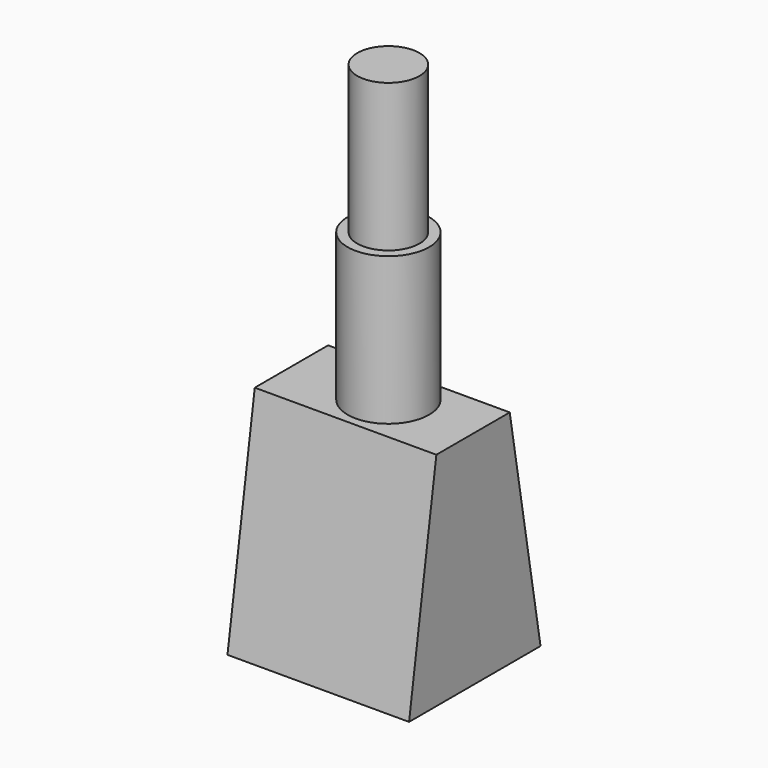
from build123d import *

# Parameters (mm, degrees)
F0_W     = 125.034798
F0_H     = 113.135892
F1_DEPTH = 152.4
F3_DEPTH = 125.035798
F5_DEPTH = 125.035798
F6_R     = 28.062264
F7_DEPTH = 101.6
F8_R     = 21.423824
F9_DEPTH = 101.6


with BuildPart() as f1:
    # F0 (on Top) → F1 (new body)
    with BuildSketch(Plane.XY):
        with Locations((-2.346424, -0.839917)):
            Rectangle(F0_W, F0_H)
    extrude(amount=F1_DEPTH)

    # F2 (on face) → F3 (cut, through all)
    with BuildSketch(Plane.YZ.offset(60.170975)):
        Polygon((-57.407863, 152.4), (-57.407863, 0), (-33.916943, 152.4), align=None)
    extrude(amount=-F3_DEPTH, mode=Mode.SUBTRACT)

    # F4 (on face) → F5 (cut, through all)
    with BuildSketch(Plane.YZ.offset(60.170975)):
        Polygon((29.225653, 152.4), (55.728029, 0), (55.728029, 152.4), align=None)
    extrude(amount=-F5_DEPTH, mode=Mode.SUBTRACT)

    # F6 (on face) → F7 (join)
    with BuildSketch(Plane.XY.offset(152.4)):
        Circle(F6_R)
    extrude(amount=F7_DEPTH)

    # F8 (on face) → F9 (join)
    with BuildSketch(Plane.XY.offset(254)):
        Circle(F8_R)
    extrude(amount=F9_DEPTH)


solid = f1.part
